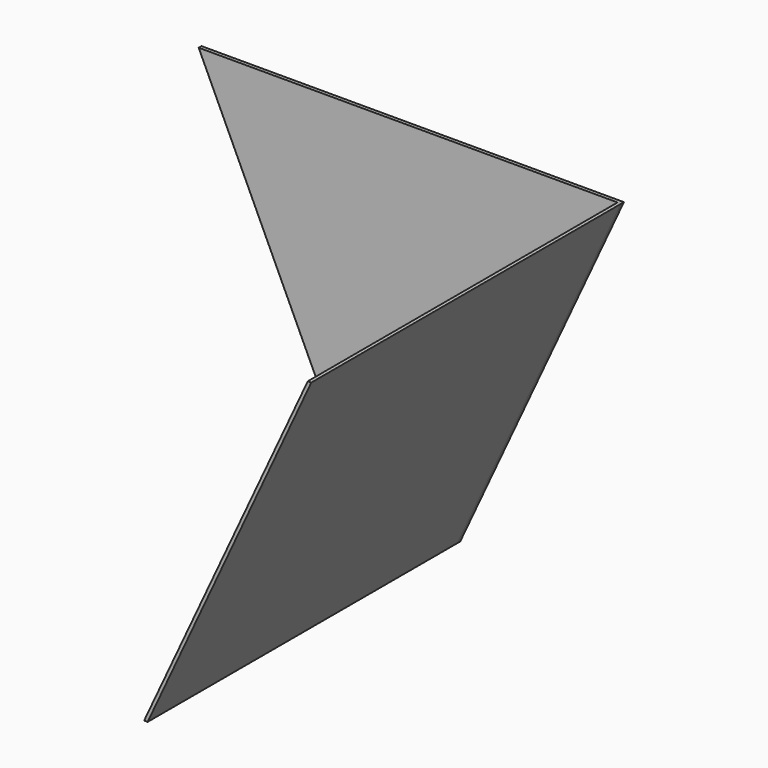
from build123d import *

# Parameters (mm, degrees)
F1_DEPTH = 1
F3_DEPTH = 110


with BuildPart() as f1:
    # F0 (on Front) → F1 (new body)
    with BuildSketch(Plane.XZ):
        with BuildLine():
            Line((60, 50), (-60, 50))
            Line((-60, 50), (-13.5, -50))
            Line((-13.5, -50), (-12.5, -50))
            ThreePointArc((-12.5, -50), (0, -37.5), (12.5, -50))
            Line((12.5, -50), (13.5, -50))
            Line((13.5, -50), (60, 50))
        make_face()
    extrude(amount=F1_DEPTH)


with BuildPart() as f3:
    # F2 (on face) → F3 (new body)
    with BuildSketch(Plane.XZ.offset(1)):
        Polygon((13.5, -50), (60, 50), (59, 50), (12.5, -50), align=None)
    extrude(amount=F3_DEPTH)


solid = Compound([f1.part, f3.part])
